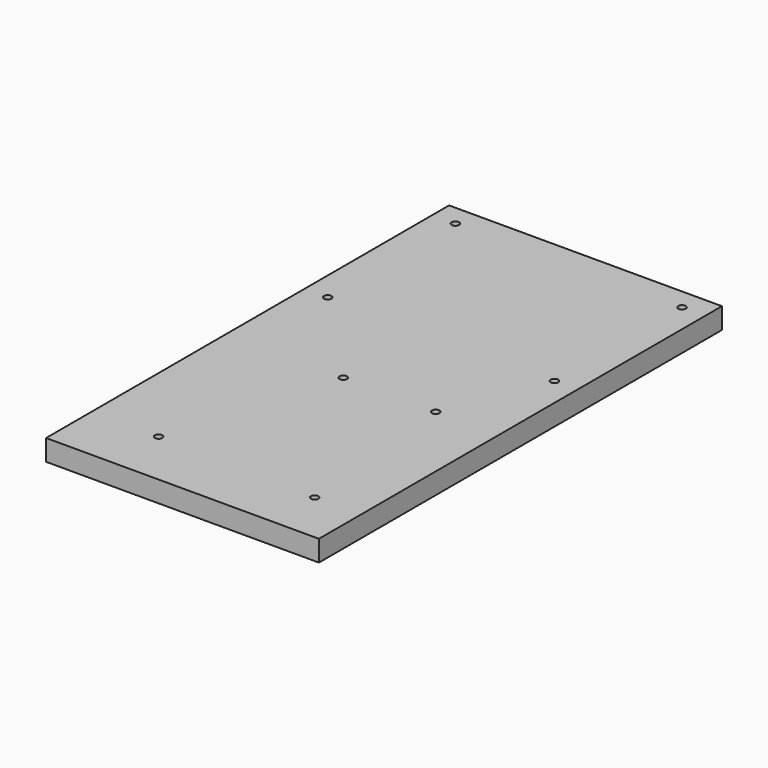
from build123d import *

# Parameters (mm, degrees)
F0_W     = 82.55
F0_H     = 152.4
F1_DEPTH = 6.35
F3_D     = 2.2606


with BuildPart() as f1:
    # F0 (on Top) → F1 (new body)
    with BuildSketch(Plane.XY):
        with Locations((41.275, 76.2)):
            Rectangle(F0_W, F0_H)
    extrude(amount=F1_DEPTH)

    # F3 (through all)
    with Locations(Plane(origin=(0, 0, 0), x_dir=(1, 0, 0), z_dir=(0, 0, -1))):
        with Locations((6.985, -97.79), (6.985, -146.05), (75.565, -146.05), (75.565, -97.79), (35.56, -67.945), (63.5, -67.945), (20.32, -17.145), (68.58, -15.875)):
            Hole(F3_D / 2)


solid = f1.part
